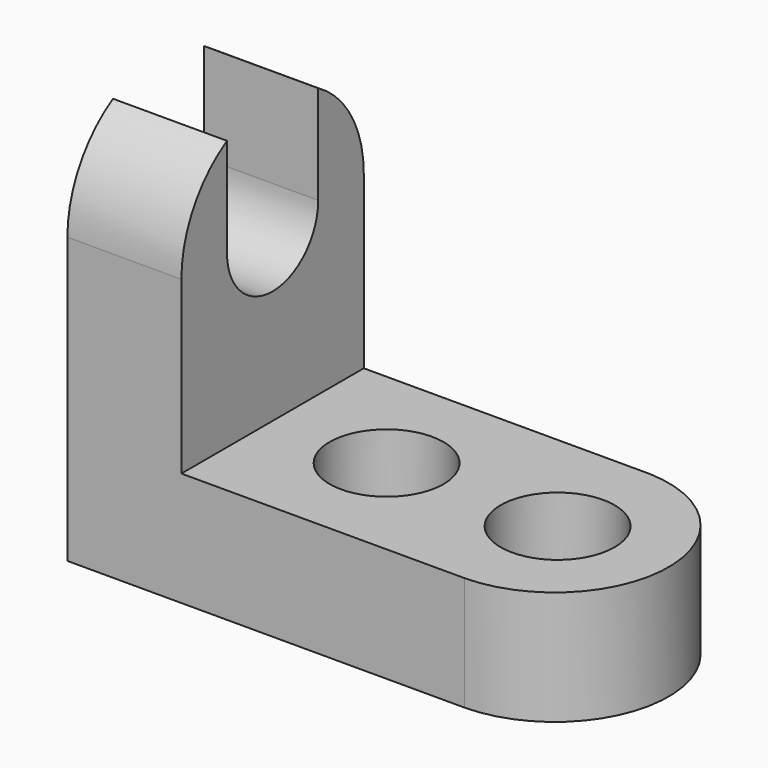
from build123d import *

# Parameters (mm, degrees)
F0_R     = 6.35
F1_DEPTH = 12.7
F3_DEPTH = 12.7
F4_W     = 25.4
F4_H     = 31.75
F4_H_2   = 12.7
F5_DEPTH = 12.7
F7_DEPTH = 12.7
F9_DEPTH = 12.7


with BuildPart() as f1:
    # F0 (on Top) → F1 (new body)
    with BuildSketch(Plane.XY):
        with BuildLine():
            Line((31.75, 25.4), (0, 25.4))
            Line((0, 25.4), (0, 0))
            Line((0, 0), (31.75, 0))
            ThreePointArc((31.75, 0), (44.304303, 12.7), (31.75, 25.4))
        make_face()
        with Locations((12.7, 12.7)):
            Circle(F0_R, mode=Mode.SUBTRACT)
        with Locations((31.75, 12.7)):
            Circle(F0_R, mode=Mode.SUBTRACT)
        with BuildLine():
            Line((44.45, 25.4), (31.75, 25.4))
            ThreePointArc((31.75, 25.4), (44.304303, 12.7), (31.75, 0))
            Line((31.75, 0), (44.45, 0))
            Line((44.45, 0), (44.45, 25.4))
        make_face()
    extrude(amount=F1_DEPTH)

    # F2 (on face) → F3 (cut)
    with BuildSketch(Plane.XY.offset(12.7)):
        with BuildLine():
            ThreePointArc((31.866888, 25.4), (44.112876, 12.548889), (31.557373, 0))
            Line((31.557373, 0), (44.45, 0))
            Line((44.45, 0), (44.45, 25.4))
            Line((44.45, 25.4), (31.866888, 25.4))
        make_face()
    extrude(amount=-F3_DEPTH, mode=Mode.SUBTRACT)

    # F4 (on face) → F5 (join)
    with BuildSketch(Plane(origin=(0, 0, 0), x_dir=(0, -1, 0), z_dir=(-1, 0, 0))):
        with Locations((-12.7, 28.575)):
            Rectangle(F4_W, F4_H)
        with Locations((-12.7, 6.35)):
            Rectangle(F4_W, F4_H_2)
    extrude(amount=F5_DEPTH)

    # F6 (on face) → F7 (cut)
    with BuildSketch(Plane(origin=(-12.7, 0, 0), x_dir=(0, -1, 0), z_dir=(-1, 0, 0))):
        with BuildLine():
            Line((-6.35, 44.45), (-19.05, 44.45))
            Line((-19.05, 44.45), (-19.05, 31.75))
            ThreePointArc((-19.05, 31.75), (-12.7, 25.4), (-6.35, 31.75))
            Line((-6.35, 31.75), (-6.35, 44.45))
        make_face()
    extrude(amount=-F7_DEPTH, mode=Mode.SUBTRACT)

    # F8 (on face) → F9 (cut)
    with BuildSketch(Plane(origin=(-12.7, 0, 0), x_dir=(0, -1, 0), z_dir=(-1, 0, 0))):
        with BuildLine():
            ThreePointArc((-25.4, 31.75), (-23.698523, 38.1), (-19.05, 42.748523))
            Line((-19.05, 42.748523), (-19.05, 44.45))
            Line((-19.05, 44.45), (-25.4, 44.45))
            Line((-25.4, 44.45), (-25.4, 31.75))
        make_face()
        with BuildLine():
            ThreePointArc((-6.35, 42.748523), (-1.701477, 38.1), (0, 31.75))
            Line((0, 31.75), (0, 44.45))
            Line((0, 44.45), (-6.35, 44.45))
            Line((-6.35, 44.45), (-6.35, 42.748523))
        make_face()
    extrude(amount=-F9_DEPTH, mode=Mode.SUBTRACT)


solid = f1.part
